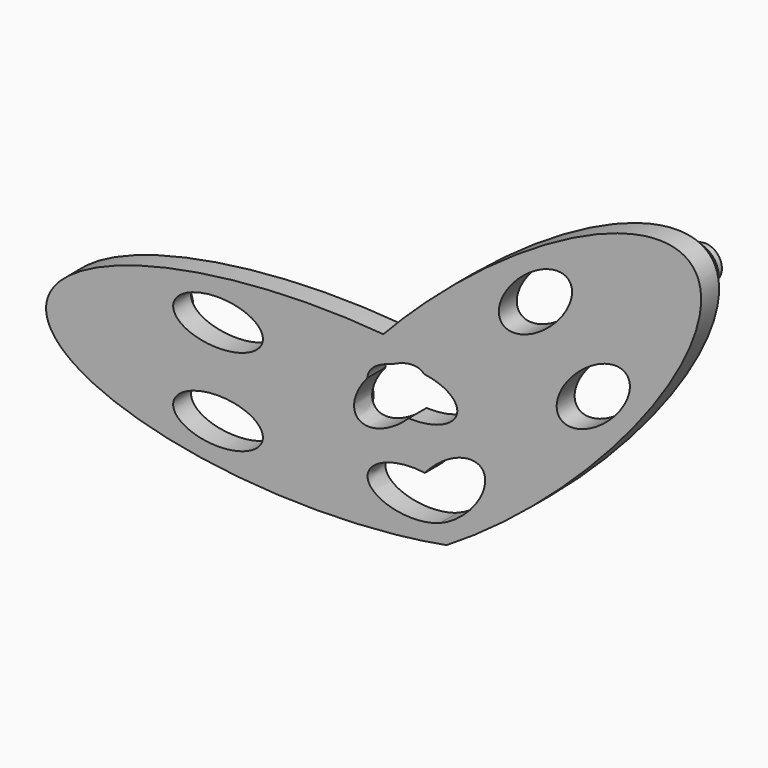
from build123d import *

# Parameters (mm, degrees)
F0_R     = 6.35
F1_DEPTH = 6.35
F0_R_2   = 4.7625
F2_DEPTH = 19.05
F3_DEPTH = 19.05
F4_DEPTH = 12.7
F5_DEPTH = 12.7
F6_DEPTH = 22.225
F7_DEPTH = 22.225


with BuildPart() as f1:
    # F0 (on Front) → F1 (new body)
    with BuildSketch(Plane.XZ):
        with BuildLine():
            add(Edge.make_bspline(
                [(37.1742285347, -22.1723469736), (122.739519111, 29.9253006643), (108.4614492154, 67.2295257241), (94.1833793198, 104.5337507839), (19.2824834585, 24.5733049188)],
                knots=[1.0611703705, 1.0611703705, 1.0611703705, 3.0146959581, 3.0146959581, 4.9682215457, 4.9682215457, 4.9682215457], degree=2, weights=[1, 0.5597081146, 1, 0.5597081146, 1]))
            add(Edge.make_bspline(
                [(19.2824834585, 24.5733049188), (-89.8653771413, 34.0896923766), (-75.5873072457, -3.2145326832), (-61.3092373501, -40.518757743), (37.1742285347, -22.1723469736)],
                knots=[1.3149637615, 1.3149637615, 1.3149637615, 3.2684893491, 3.2684893491, 5.2220149367, 5.2220149367, 5.2220149367], degree=2, weights=[1, 0.5597081146, 1, 0.5597081146, 1]))
        make_face()
        with BuildLine():
            add(Edge.make_bspline(
                [(-40.2189802051, -12.2613835424), (-40.2189802051, -23.2599061705), (-21.1689802051, -17.7606448564), (-2.1189802051, -12.2613835424), (-21.1689802051, -6.7621222284), (-40.2189802051, -1.2628609144), (-40.2189802051, -12.2613835424)],
                knots=[0, 0, 0, 2.0943951024, 2.0943951024, 4.1887902048, 4.1887902048, 6.2831853072, 6.2831853072, 6.2831853072], degree=2, weights=[1, 0.5, 1, 0.5, 1, 0.5, 1]))
        make_face(mode=Mode.SUBTRACT)
        with Locations((-57.15, 0)):
            Circle(F0_R, mode=Mode.SUBTRACT)
        Circle(F0_R, mode=Mode.SUBTRACT)
        with BuildLine():
            add(Edge.make_bspline(
                [(-40.2189802051, 12.2613835424), (-40.2189802051, 1.2628609144), (-21.1689802051, 6.7621222284), (-2.1189802051, 12.2613835424), (-21.1689802051, 17.7606448564), (-40.2189802051, 23.2599061705), (-40.2189802051, 12.2613835424)],
                knots=[0, 0, 0, 2.0943951024, 2.0943951024, 4.1887902048, 4.1887902048, 6.2831853072, 6.2831853072, 6.2831853072], degree=2, weights=[1, 0.5, 1, 0.5, 1, 0.5, 1]))
        make_face(mode=Mode.SUBTRACT)
        with BuildLine():
            add(Edge.make_bspline(
                [(31.0460055984, -6.1611767452), (11.1531172526, -3.285752818), (15.0453420721, -13.4549445722), (18.9375668916, -23.6241363265), (35.3014766673, -17.2794197324)],
                knots=[1.2893779229, 1.2893779229, 1.2893779229, 3.3306797762, 3.3306797762, 5.3719816294, 5.3719816294, 5.3719816294], degree=2, weights=[1, 0.5228111806, 1, 0.5228111806, 1]))
            add(Edge.make_bspline(
                [(35.3014766673, -17.2794197324), (51.7197916302, -11.0768472352), (47.8275668108, -0.9076554809), (43.9353419913, 9.2615362733), (31.0460055984, -6.1611767452)],
                knots=[0.9112036777, 0.9112036777, 0.9112036777, 2.952505531, 2.952505531, 4.9938073843, 4.9938073843, 4.9938073843], degree=2, weights=[1, 0.5228111806, 1, 0.5228111806, 1]))
        make_face(mode=Mode.SUBTRACT)
        with BuildLine():
            add(Edge.make_bspline(
                [(26.4160908045, 5.9353730506), (38.0004613393, 5.4304624323), (40.0250130574, 11.155813294), (42.0495647755, 16.8811641557), (30.8212418268, 18.3929630327)],
                knots=[4.6254377708, 4.6254377708, 4.6254377708, 6.108187934, 6.108187934, 7.5909380972, 7.5909380972, 7.5909380972], degree=2, weights=[1, 0.73754066, 1, 0.73754066, 1]))
            add(Edge.make_bspline(
                [(14.8189874208, 12.2681525982), (7.4694947115, 3.6457556577), (12.7993768112, 0.7352902393), (18.1292589109, -2.1751751792), (26.4160908045, 5.9353730506)],
                knots=[4.9754325172, 4.9754325172, 4.9754325172, 6.4581826804, 6.4581826804, 7.9409328436, 7.9409328436, 7.9409328436], degree=2, weights=[1, 0.73754066, 1, 0.73754066, 1]))
            add(Edge.make_bspline(
                [(21.8225865676, 17.9367932089), (14.827330656, 16.1815132551), (14.8189874208, 12.2681525982)],
                knots=[2.0359217815, 2.0359217815, 2.0359217815, 3.1405266603, 3.1405266603, 3.1405266603], degree=2, weights=[1, 0.8513188077, 1]))
            add(Edge.make_bspline(
                [(30.8212418268, 18.3929630327), (28.2021525278, 21.3006824972), (21.8225865676, 17.9367932089)],
                knots=[3.1426586468, 3.1426586468, 3.1426586468, 4.2472635256, 4.2472635256, 4.2472635256], degree=2, weights=[1, 0.8513188077, 1]))
        make_face(mode=Mode.SUBTRACT)
        with Locations((50.0444119496, 19.154334678)):
            Circle(F0_R, mode=Mode.SUBTRACT)
        with BuildLine():
            add(Edge.make_bspline(
                [(71.7986181301, 55.1357522232), (64.4551089206, 63.3235707661), (53.945145806, 46.510330438), (43.4351826914, 29.6970901099), (61.2886550155, 38.3225118952), (79.1421273396, 46.9479336804), (71.7986181301, 55.1357522232)],
                knots=[0, 0, 0, 2.0943951024, 2.0943951024, 4.1887902048, 4.1887902048, 6.2831853072, 6.2831853072, 6.2831853072], degree=2, weights=[1, 0.5, 1, 0.5, 1, 0.5, 1]))
        make_face(mode=Mode.SUBTRACT)
        with BuildLine():
            add(Edge.make_bspline(
                [(88.1720140869, 36.8798487852), (80.8285048775, 45.0676673281), (70.3185417629, 28.254427), (59.8085786482, 11.4411866719), (77.6620509723, 20.0666084571), (95.5155232964, 28.6920302424), (88.1720140869, 36.8798487852)],
                knots=[0, 0, 0, 2.0943951024, 2.0943951024, 4.1887902048, 4.1887902048, 6.2831853072, 6.2831853072, 6.2831853072], degree=2, weights=[1, 0.5, 1, 0.5, 1, 0.5, 1]))
        make_face(mode=Mode.SUBTRACT)
        with Locations((92.5895651076, 57.312327848)):
            Circle(F0_R, mode=Mode.SUBTRACT)
    extrude(amount=-F1_DEPTH)

    # F0 (on Front) → F2 (join)
    with BuildSketch(Plane.XZ):
        with Locations((-57.15, 0)):
            Circle(F0_R)
        with Locations((-57.15, 0)):
            Circle(F0_R_2, mode=Mode.SUBTRACT)
    extrude(amount=-F2_DEPTH)

    # F0 (on Front) → F3 (join)
    with BuildSketch(Plane.XZ):
        with Locations((92.5895651076, 57.312327848)):
            Circle(F0_R)
        with Locations((92.5895651076, 57.312327848)):
            Circle(F0_R_2, mode=Mode.SUBTRACT)
    extrude(amount=-F3_DEPTH)

    # F0 (on Front) → F4 (join)
    with BuildSketch(Plane.XZ):
        Circle(F0_R)
    extrude(amount=-F4_DEPTH)

    # F0 (on Front) → F5 (join)
    with BuildSketch(Plane.XZ):
        with Locations((50.0444119496, 19.154334678)):
            Circle(F0_R)
    extrude(amount=-F5_DEPTH)

    # F0 (on Front) → F6 (join)
    with BuildSketch(Plane.XZ):
        with Locations((92.5895651076, 57.312327848)):
            Circle(F0_R_2)
    extrude(amount=-F6_DEPTH)

    # F0 (on Front) → F7 (join)
    with BuildSketch(Plane.XZ):
        with Locations((-57.15, 0)):
            Circle(F0_R_2)
    extrude(amount=-F7_DEPTH)


solid = f1.part
